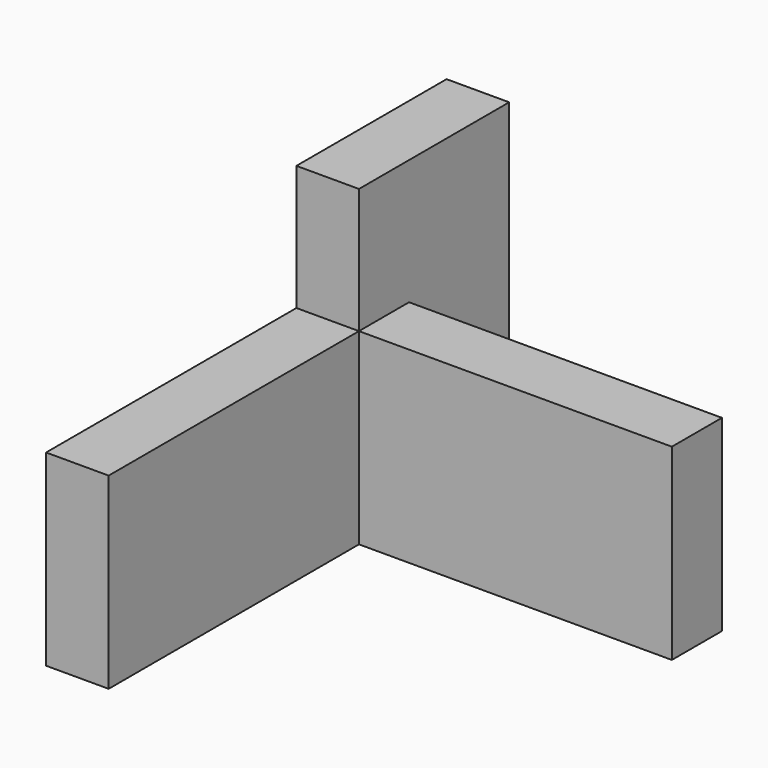
from build123d import *

# Parameters (mm, degrees)
F0_W     = 25.4
F0_H     = 76.2
F1_DEPTH = 127
F2_W     = 25.4
F2_H     = 76.2
F3_DEPTH = 127
F4_W     = 25.4
F4_H     = 76.2
F5_DEPTH = 127


with BuildPart() as f1:
    # F0 (on Right) → F1 (new body)
    with BuildSketch(Plane.YZ):
        with Locations((12.7, 38.1)):
            Rectangle(F0_W, F0_H)
    extrude(amount=F1_DEPTH)


with BuildPart() as f3:
    # F2 (on Front) → F3 (new body)
    with BuildSketch(Plane.XZ):
        with Locations((-12.7, 38.1)):
            Rectangle(F2_W, F2_H)
    extrude(amount=F3_DEPTH)


with BuildPart() as f5:
    # F4 (on Top) → F5 (new body)
    with BuildSketch(Plane.XY):
        with Locations((-12.7, 38.1)):
            Rectangle(F4_W, F4_H)
    extrude(amount=F5_DEPTH)


solid = Compound([f1.part, f3.part, f5.part])
